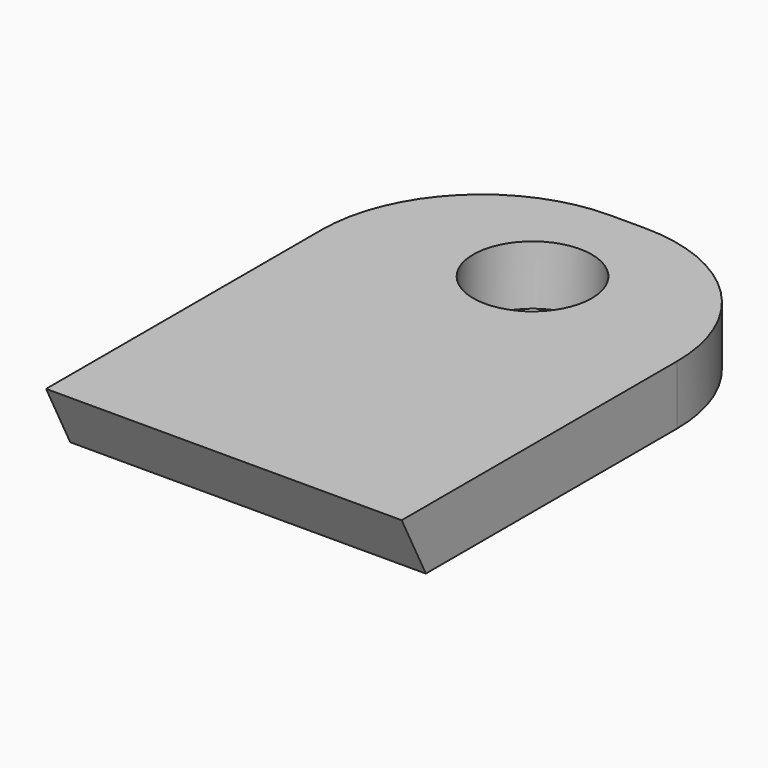
from build123d import *

# Parameters (mm, degrees)
F0_W     = 38.1
F0_H     = 50.8
F0_R     = 6.35
F1_DEPTH = 6.35
F2_R     = 17.169887
F4_DEPTH = 38.1
F5_T     = -1.27


with BuildPart() as f1:
    # F0 (on Top) → F1 (new body)
    with BuildSketch(Plane.XY):
        with Locations((0, 25.4)):
            Rectangle(F0_W, F0_H)
        with Locations((0, 38.1)):
            Circle(F0_R, mode=Mode.SUBTRACT)
    extrude(amount=F1_DEPTH)

    # F2
    f2_edges = [f1.edges().sort_by_distance(p)[0] for p in [
        (-19.05, 50.8, 3.175),
        (19.05, 50.8, 3.175),
    ]]
    fillet(f2_edges, radius=F2_R)

    # F3 (on face) → F4 (join)
    with BuildSketch(Plane.YZ.offset(19.05)):
        Polygon((0, 0), (0, 6.35), (-3.235487, 6.35), align=None)
    extrude(amount=-F4_DEPTH)

    # F5
    f5_openings = [f1.faces().sort_by_distance(p)[0] for p in [
        (0, 22.821689, 0),
    ]]
    offset(amount=F5_T, openings=f5_openings)


solid = f1.part
